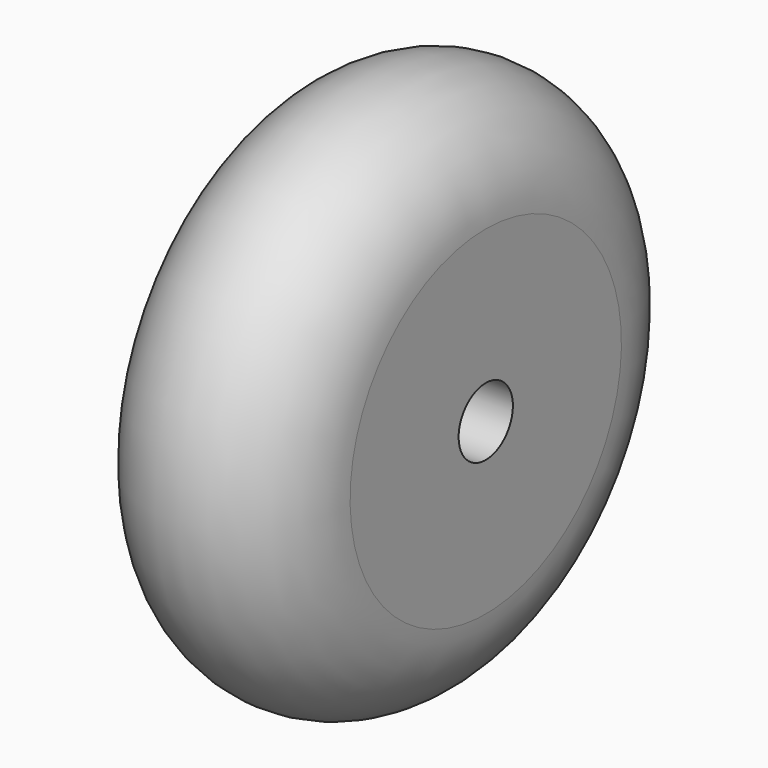
from build123d import *


with BuildPart() as f1:
    # F0 (on Front) → F1 (revolve)
    with BuildSketch(Plane.XZ):
        with BuildLine():
            Line((15, -20), (15, 0))
            ThreePointArc((15, 0), (0, 15), (-15, 0))
            Line((-15, 0), (-15, -20))
            Line((-15, -20), (15, -20))
        make_face()
    revolve(axis=Axis((-25, 0, -25), (-1, 0, 0)))


solid = f1.part
